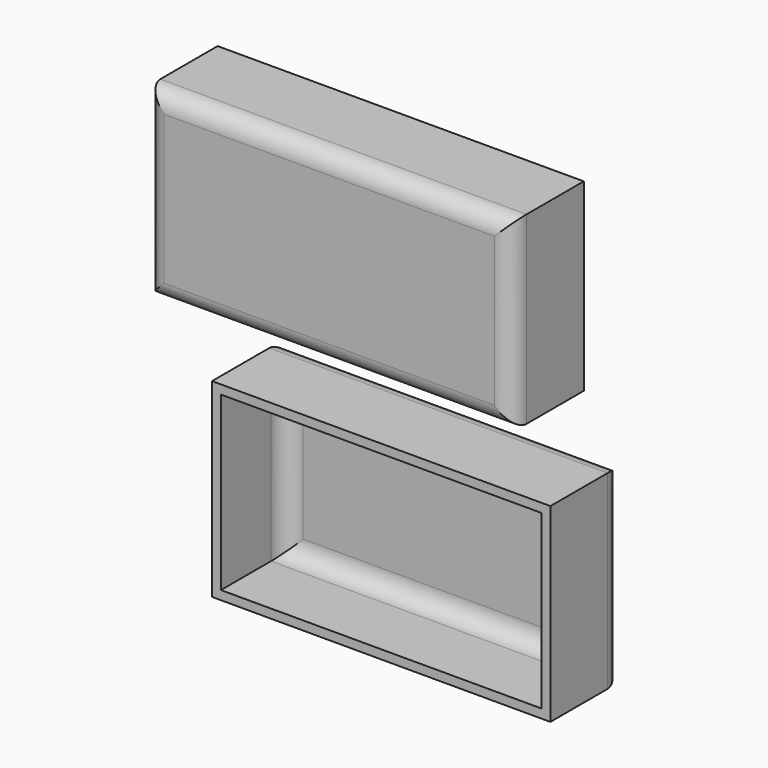
from build123d import *

# Parameters (mm, degrees)
F0_W     = 104.052413255
F0_H     = 52.4203460664
F1_DEPTH = 25.4
F2_R     = 5.08
F3_T     = -2.54
F4_W     = 96.1696626619
F4_H     = 53.9968945086
F5_DEPTH = 25.4
F6_T     = -2.54
F7_R     = 5.08
F8_R     = 5.08


with BuildPart() as f1:
    # F0 (on Front) → F1 (new body)
    with BuildSketch(Plane.XZ):
        with Locations((-22.2687926143, 36.2606905401)):
            Rectangle(F0_W, F0_H)
    extrude(amount=F1_DEPTH)

    # F2
    f2_edges = [f1.edges().sort_by_distance(p)[0] for p in [
        (-22.268793, -25.4, 10.050518),
        (29.757414, -25.4, 36.260691),
        (-22.268793, -25.4, 62.470864),
        (-74.294999, -25.4, 36.260691),
    ]]
    fillet(f2_edges, radius=F2_R)

    # F3
    f3_openings = [f1.faces().sort_by_distance(p)[0] for p in [
        (-22.268793, 0, 36.260691),
    ]]
    offset(amount=F3_T, openings=f3_openings)


with BuildPart() as f5:
    # F4 (on Front) → F5 (new body)
    with BuildSketch(Plane.XZ):
        with Locations((-7.4886209331, -31.9251716137)):
            Rectangle(F4_W, F4_H)
    extrude(amount=F5_DEPTH)

    # F6
    f6_openings = [f5.faces().sort_by_distance(p)[0] for p in [
        (-7.488621, -25.4, -31.925172),
    ]]
    offset(amount=F6_T, openings=f6_openings)

    # F7
    f7_edges = [f5.edges().sort_by_distance(p)[0] for p in [
        (-53.033452, -2.54, -31.925172),
        (-7.488621, -2.54, -56.383619),
        (38.05621, -2.54, -31.925172),
        (-7.488621, -2.54, -7.466724),
    ]]
    fillet(f7_edges, radius=F7_R)

    # F8
    f8_edges = [f5.edges().sort_by_distance(p)[0] for p in [
        (-7.488621, 0, -4.926724),
        (-55.573452, 0, -31.925172),
        (-7.488621, 0, -58.923619),
        (40.59621, 0, -31.925172),
    ]]
    fillet(f8_edges, radius=F8_R)


solid = Compound([f1.part, f5.part])
